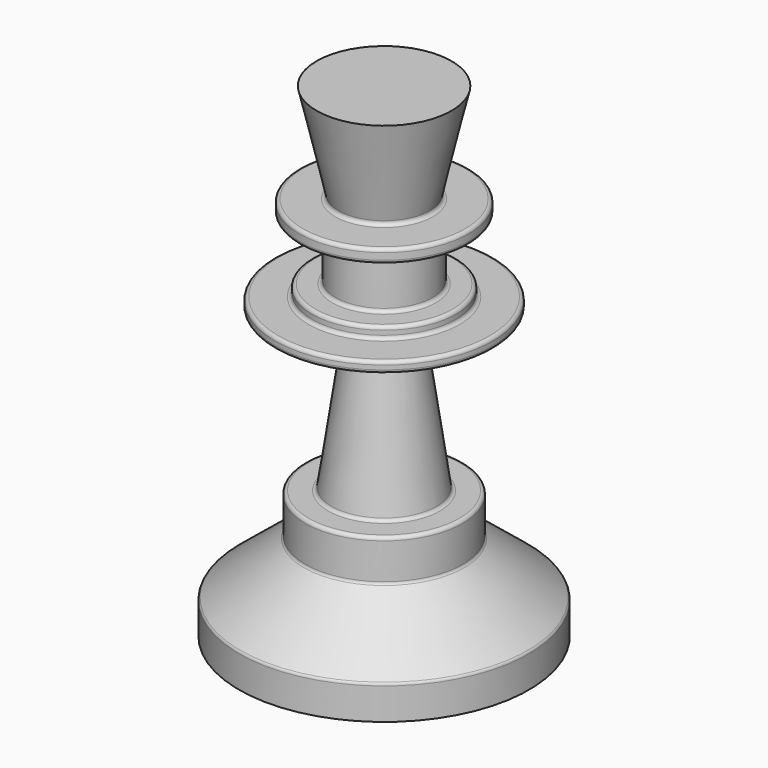
from build123d import *


with BuildPart() as f1:
    # F0 (on Front) → F1 (revolve)
    with BuildSketch(Plane.XZ):
        with BuildLine():
            Line((0, 0), (0, 71.230993))
            Line((0, 71.230993), (-9.911698, 71.230993))
            Line((-9.911698, 71.230993), (-6.691849, 57.255048))
            ThreePointArc((-6.691849, 57.255048), (-6.789389, 56.824672), (-7.186881, 56.633))
            Line((-7.186881, 56.633), (-11.946209, 56.633))
            ThreePointArc((-11.946209, 56.633), (-12.30542, 56.48421), (-12.454209, 56.125))
            Line((-12.454209, 56.125), (-12.454209, 55.147029))
            ThreePointArc((-12.454209, 55.147029), (-12.30542, 54.787819), (-11.946209, 54.639029))
            Line((-11.946209, 54.639029), (-7.60572, 54.639029))
            ThreePointArc((-7.60572, 54.639029), (-7.24651, 54.490239), (-7.09772, 54.131029))
            Line((-7.09772, 54.131029), (-7.09772, 46.134622))
            ThreePointArc((-7.09772, 46.134622), (-7.24651, 45.775411), (-7.60572, 45.626622))
            Line((-7.60572, 45.626622), (-10.090619, 45.626622))
            ThreePointArc((-10.090619, 45.626622), (-10.44983, 45.477832), (-10.598619, 45.118622))
            Line((-10.598619, 45.118622), (-10.598619, 44.46153))
            ThreePointArc((-10.598619, 44.46153), (-10.747409, 44.10232), (-11.106619, 43.95353))
            Line((-11.106619, 43.95353), (-15.549733, 43.95353))
            ThreePointArc((-15.549733, 43.95353), (-15.908944, 43.804741), (-16.057733, 43.44553))
            Line((-16.057733, 43.44553), (-16.057733, 42.822265))
            ThreePointArc((-16.057733, 42.822265), (-15.908944, 42.463055), (-15.549733, 42.314265))
            Line((-15.549733, 42.314265), (-4.956866, 42.314265))
            ThreePointArc((-4.956866, 42.314265), (-4.572684, 42.138633), (-4.45415, 41.73318))
            Line((-4.45415, 41.73318), (-7.714283, 19.308296))
            ThreePointArc((-7.714283, 19.308296), (-7.88463, 18.997199), (-8.216998, 18.87338))
            Line((-8.216998, 18.87338), (-11.085346, 18.87338))
            ThreePointArc((-11.085346, 18.87338), (-11.444557, 18.724591), (-11.593346, 18.36538))
            Line((-11.593346, 18.36538), (-11.593346, 13.081226))
            ThreePointArc((-11.593346, 13.081226), (-11.642449, 12.863334), (-11.780263, 12.687564))
            Line((-11.780263, 12.687564), (-21.139981, 5.053455))
            ThreePointArc((-21.139981, 5.053455), (-21.277796, 4.877685), (-21.326898, 4.659793))
            Line((-21.326898, 4.659793), (-21.326898, 0))
            Line((-21.326898, 0), (0, 0))
        make_face()
    revolve(axis=Axis((0, 0, 35.615497), (0, 0, -1)))


solid = f1.part
